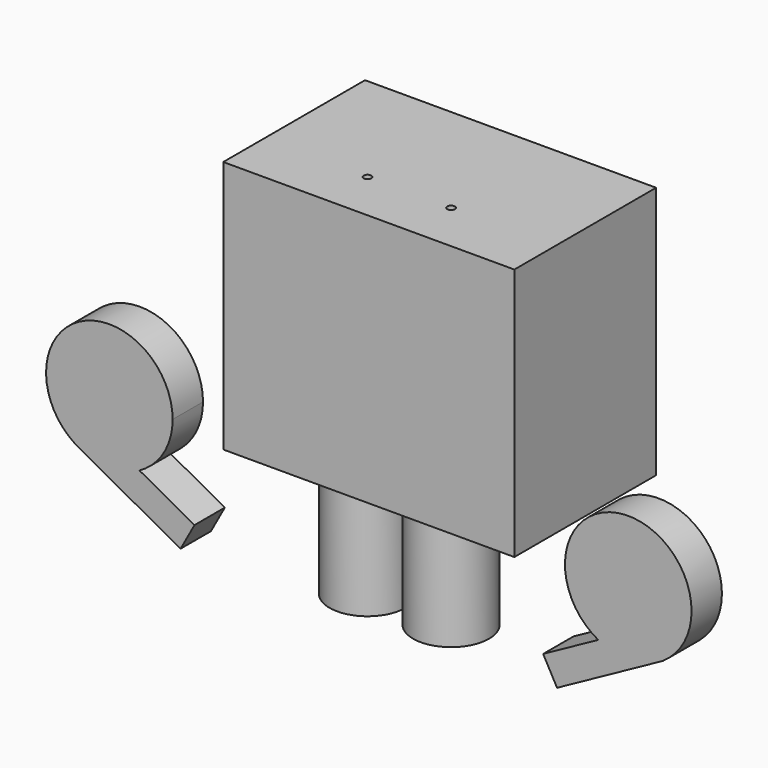
from build123d import *

# Parameters (mm, degrees)
F0_W     = 115
F0_H     = 100
F1_DEPTH = 70
F2_R     = 15
F3_DEPTH = 45
F5_DEPTH = 15
F6_R     = 1.5
F7_DEPTH = 145.001


with BuildPart() as f1:
    # F0 (on Front) → F1 (new body)
    with BuildSketch(Plane.XZ):
        with Locations((0, 50)):
            Rectangle(F0_W, F0_H)
    extrude(amount=F1_DEPTH)

    # F2 (on face) → F3 (join)
    with BuildSketch(Plane(origin=(0, 0, 0), x_dir=(1, 0, 0), z_dir=(0, 0, -1))):
        with Locations((-16.5, 50)):
            Circle(F2_R)
        with Locations((16.5, 50)):
            Circle(F2_R)
    extrude(amount=F3_DEPTH)

    # F6 (on face) → F7 (cut, through all)
    with BuildSketch(Plane(origin=(0, 0, -45), x_dir=(1, 0, 0), z_dir=(0, 0, -1))):
        with Locations((-16.5, 50)):
            Circle(F6_R)
        with Locations((16.5, 50)):
            Circle(F6_R)
    extrude(amount=-F7_DEPTH, mode=Mode.SUBTRACT)


with BuildPart() as f5:
    # F4 (on face) → F5 (new body)
    with BuildSketch(Plane.XZ.offset(70)):
        with BuildLine():
            ThreePointArc((-90.6380236441, -18.0340784617), (-81.0343366175, -8.8424504028), (-77.5, 3.9725913666))
            ThreePointArc((-77.5, 3.9725913666), (-114.3714518406, 25.9741511112), (-116.2254904956, -16.9226451875))
            Line((-116.2254904956, -16.9226451875), (-110.7682311715, -6.9824300553))
            Line((-110.7682311715, -6.9824300553), (-90.6380236441, -18.0340784617))
        make_face()
        with BuildLine():
            Line((-110.7682311715, -6.9824300553), (-116.2254904956, -16.9226451875))
            ThreePointArc((-116.2254904956, -16.9226451875), (-115.3884653253, -17.4490673357), (-114.5312778232, -17.941978078))
            ThreePointArc((-114.5312778232, -17.941978078), (-102.5963657972, -21.0272229054), (-90.6380236441, -18.0340784617))
            Line((-90.6380236441, -18.0340784617), (-110.7682311715, -6.9824300553))
        make_face()
        with BuildLine():
            ThreePointArc((-114.5312778232, -17.941978078), (-115.3884653253, -17.4490673357), (-116.2254904956, -16.9226451875))
            Line((-116.2254904956, -16.9226451875), (-116.2631185248, -16.9911833828))
            Line((-116.2631185248, -16.9911833828), (-114.5312778232, -17.941978078))
        make_face()
        with BuildLine():
            Line((-68.8741824748, -29.9826050851), (-90.6380236441, -18.0340784617))
            ThreePointArc((-90.6380236441, -18.0340784617), (-102.5963657972, -21.0272229054), (-114.5312778232, -17.941978078))
            Line((-114.5312778232, -17.941978078), (-74.3690698281, -39.9913584125))
            Line((-74.3690698281, -39.9913584125), (-68.8741824748, -29.9826050851))
        make_face()
    extrude(amount=-F5_DEPTH)


with BuildPart() as f5b:
    # F4 (on face) → F5, piece 2 (new body)
    with BuildSketch(Plane.XZ.offset(70)):
        with BuildLine():
            Line((90.6380236441, -18.0340784617), (68.8741824748, -29.9826050851))
            Line((68.8741824748, -29.9826050851), (74.3690698281, -39.9913584125))
            Line((74.3690698281, -39.9913584125), (114.5312776752, -17.9419781592))
            ThreePointArc((114.5312776752, -17.9419781592), (102.5963657128, -21.0272229057), (90.6380236441, -18.0340784617))
        make_face()
        with BuildLine():
            ThreePointArc((127.5, 3.9725913666), (89.6849582306, 25.4382547491), (90.6380236441, -18.0340784617))
            Line((90.6380236441, -18.0340784617), (110.7682311715, -6.9824300553))
            Line((110.7682311715, -6.9824300553), (116.2254904956, -16.9226451875))
            ThreePointArc((116.2254904956, -16.9226451875), (124.5015597446, -7.898860474), (127.5, 3.9725913666))
        make_face()
        with BuildLine():
            Line((110.7682311715, -6.9824300553), (90.6380236441, -18.0340784617))
            ThreePointArc((90.6380236441, -18.0340784617), (102.5963657128, -21.0272229057), (114.5312776752, -17.9419781592))
            ThreePointArc((114.5312776752, -17.9419781592), (115.388465253, -17.4490673792), (116.2254904956, -16.9226451875))
            Line((116.2254904956, -16.9226451875), (110.7682311715, -6.9824300553))
        make_face()
        with BuildLine():
            ThreePointArc((116.2254904956, -16.9226451875), (115.388465253, -17.4490673792), (114.5312776752, -17.9419781592))
            Line((114.5312776752, -17.9419781592), (116.2631185248, -16.9911833828))
            Line((116.2631185248, -16.9911833828), (116.2254904956, -16.9226451875))
        make_face()
    extrude(amount=-F5_DEPTH)


solid = Compound([f1.part, f5.part, f5b.part])
